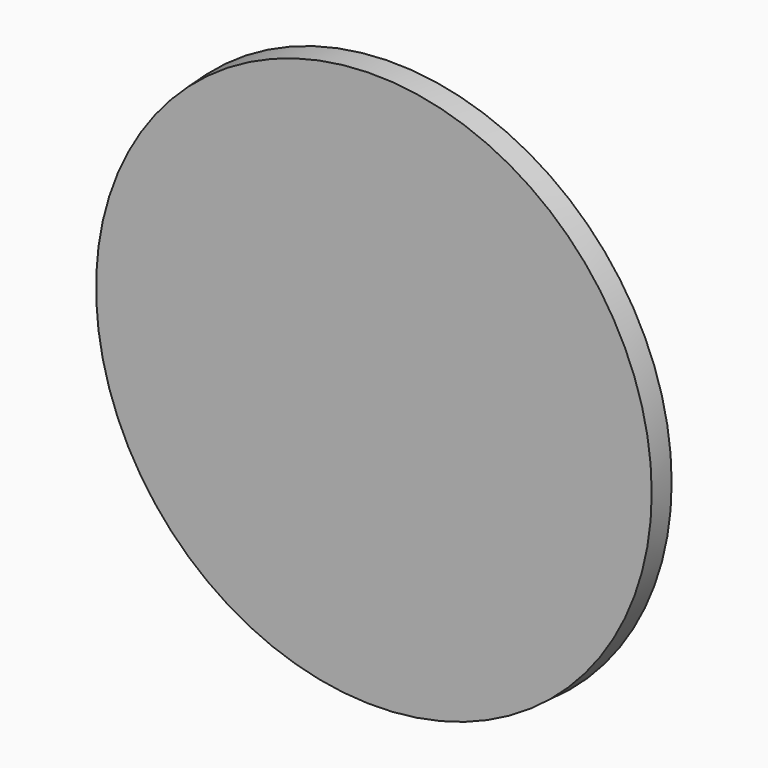
from build123d import *

# Parameters (mm, degrees)
F0_R     = 474.8940868533
F1_DEPTH = 40
F1_TAPER = -3


with BuildPart() as f1:
    # F0 (on Front) → F1 (new body)
    with BuildSketch(Plane.XZ):
        with Locations((170.9643006325, 424.7812628746)):
            Circle(F0_R)
    extrude(amount=-F1_DEPTH, taper=F1_TAPER)


solid = f1.part
